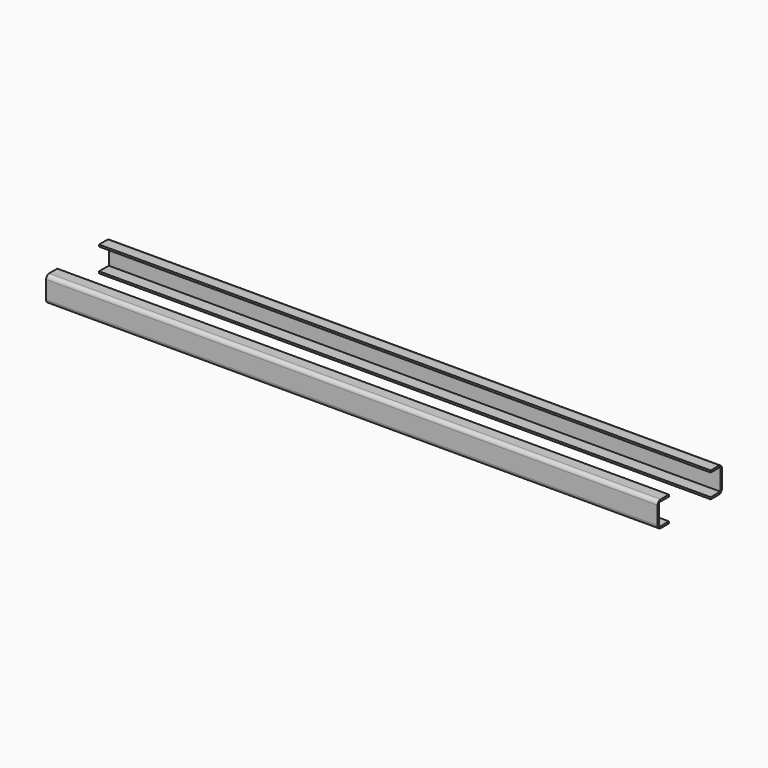
from build123d import *

# Parameters (mm, degrees)
BOX417_W     = 480
BOX417_H     = 10
BOX417_DEPTH = 17
BOX416_W     = 480
BOX416_H     = 11
BOX416_DEPTH = 20
FILLET268_R  = 3
BOX419_W     = 480
BOX419_H     = 10
BOX419_DEPTH = 17
BOX418_W     = 480
BOX418_H     = 11
BOX418_DEPTH = 20
FILLET269_R  = 3


with BuildPart() as cube642:
    # Box417 → Box417 (new body)
    with BuildSketch(Plane(origin=(0, 1.5, -90.5), x_dir=(1, 0, 0), z_dir=(0, 0, 1))):
        with Locations((240, 5)):
            Rectangle(BOX417_W, BOX417_H)
    extrude(amount=BOX417_DEPTH)


with BuildPart() as fillet268:
    # Box416 → Box416 (new body)
    with BuildSketch(Plane.XY.offset(-92)):
        with Locations((240, 5.5)):
            Rectangle(BOX416_W, BOX416_H)
    extrude(amount=BOX416_DEPTH)

    # Cut429: cut Cube642
    add(cube642.part, mode=Mode.SUBTRACT)

    # Fillet268
    fillet268_edges = [fillet268.edges().sort_by_distance(p)[0] for p in [
        (240, 0, -72),
        (240, 0, -92),
    ]]
    fillet(fillet268_edges, radius=FILLET268_R)


with BuildPart() as fillet268_1:
    # Fillet268 placement: moved
    add(fillet268.part.moved(Location((0, -1.5, 0))))


with BuildPart() as cube644:
    # Box419 → Box419 (new body)
    with BuildSketch(Plane(origin=(0, 1.5, -90.5), x_dir=(1, 0, 0), z_dir=(0, 0, 1))):
        with Locations((240, 5)):
            Rectangle(BOX419_W, BOX419_H)
    extrude(amount=BOX419_DEPTH)


with BuildPart() as fillet269:
    # Box418 → Box418 (new body)
    with BuildSketch(Plane.XY.offset(-92)):
        with Locations((240, 5.5)):
            Rectangle(BOX418_W, BOX418_H)
    extrude(amount=BOX418_DEPTH)

    # Cut430: cut Cube644
    add(cube644.part, mode=Mode.SUBTRACT)

    # Fillet269
    fillet269_edges = [fillet269.edges().sort_by_distance(p)[0] for p in [
        (240, 0, -72),
        (240, 0, -92),
    ]]
    fillet(fillet269_edges, radius=FILLET269_R)


with BuildPart() as fusion231:
    # Part__Mirroring036: instance of Fillet269
    add(fillet269.part.mirror(Plane(origin=(0, 0, 0), x_dir=(1, 0, 0), z_dir=(0, 1, 0))))


with BuildPart() as fusion231_1:
    # Part__Mirroring036 placement: moved
    add(fusion231.part.moved(Location((0, 61.5, 0))))

    # Fusion231: union Fillet268
    add(fillet268_1.part)


with BuildPart() as fusion231_2:
    # Fusion231 placement: moved
    add(fusion231_1.part.moved(Location((23.5, 55, 71))))


solid = fusion231_2.part
